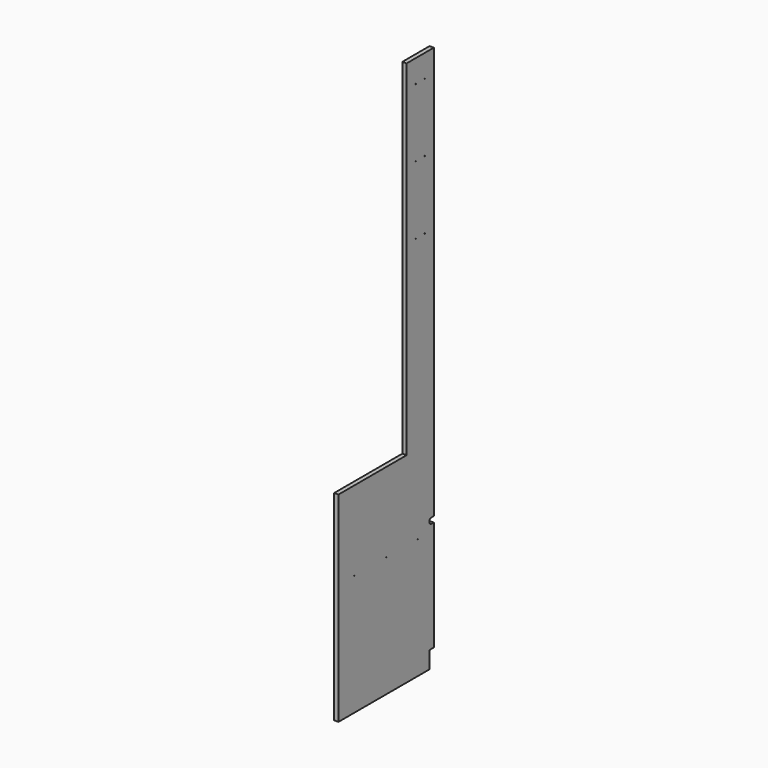
from build123d import *

# Parameters (mm, degrees)
F1_DEPTH = 19.05
F2_R     = 1.5875
F3_DEPTH = 25.4


with BuildPart() as f1:
    # F0 (on Right) → F1 (new body)
    with BuildSketch(Plane.YZ):
        Polygon((0, 895.35), (0, 0), (508, 0), (508, 76.2), (533.4, 76.2), (533.4, 2438.4), (381, 2438.4), (381, 895.35), align=None)
    extrude(amount=F1_DEPTH)

    # F2 (on face) → F3 (cut)
    with BuildSketch(Plane.YZ.offset(19.05)):
        with Locations((431.8, 2336.8)):
            Circle(F2_R)
        with Locations((482.6, 2336.8)):
            Circle(F2_R)
        with Locations((431.8, 2032)):
            Circle(F2_R)
        with Locations((482.6, 2032)):
            Circle(F2_R)
        with Locations((431.8, 1727.2)):
            Circle(F2_R)
        with Locations((482.6, 1727.2)):
            Circle(F2_R)
        with Locations((88.9, 539.75)):
            Circle(F2_R)
        with Locations((266.7, 539.75)):
            Circle(F2_R)
        with Locations((444.5, 539.75)):
            Circle(F2_R)
        with BuildLine():
            Line((533.4, 593.725), (520.7, 593.725))
            ThreePointArc((520.7, 593.725), (508, 581.025), (520.7, 568.325))
            Line((520.7, 568.325), (533.4, 568.325))
            Line((533.4, 568.325), (533.4, 593.725))
        make_face()
    extrude(amount=-F3_DEPTH, mode=Mode.SUBTRACT)


solid = f1.part
